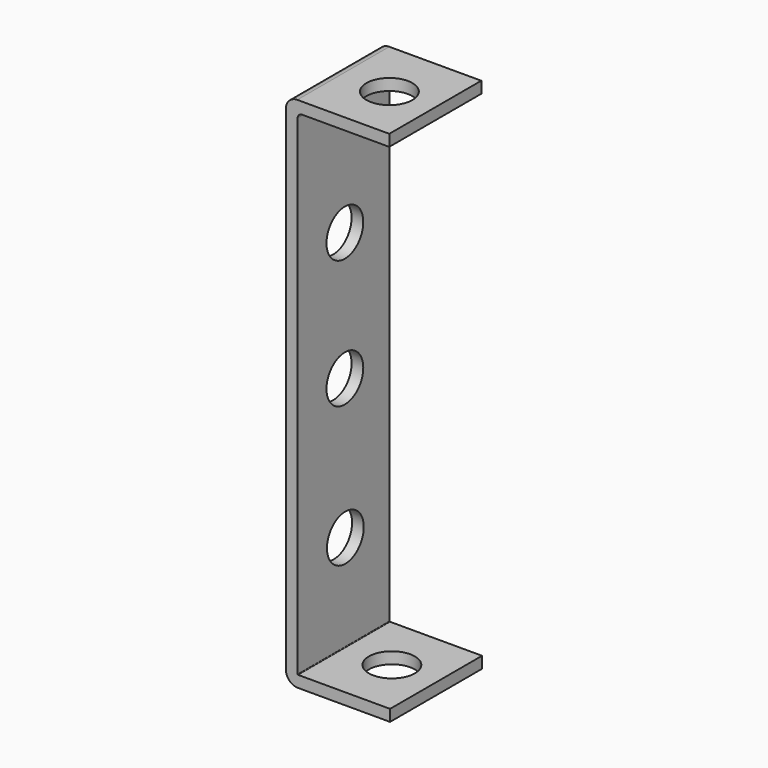
from build123d import *

# Parameters (mm, degrees)
CYLINDER030_R               = 2
CYLINDER030_DEPTH           = 10
CYLINDER030_PITCH_ANGLE     = 90
CYLINDER030_PLACEMENT_ANGLE = 7e-06
CYLINDER031_R               = 2
CYLINDER031_DEPTH           = 10
CYLINDER031_PITCH_ANGLE     = 90
CYLINDER031_PLACEMENT_ANGLE = 7e-06
CYLINDER026_R               = 2
CYLINDER026_DEPTH           = 2
CYLINDER026_ROLL_ANGLE      = -88.507054
CYLINDER026_PITCH_ANGLE     = -87.01751
CYLINDER026_PLACEMENT_ANGLE = -92.244015
CYLINDER028_R               = 2
CYLINDER028_DEPTH           = 2
CYLINDER028_PLACEMENT_ANGLE = 90.00001
CYLINDER029_R               = 2
CYLINDER029_DEPTH           = 2
CYLINDER029_ROLL_ANGLE      = 90
CYLINDER027_R               = 2
CYLINDER027_DEPTH           = 2
CYLINDER027_ROLL_ANGLE      = 90
CYLINDER025_R               = 2
CYLINDER025_DEPTH           = 2
CYLINDER025_ROLL_ANGLE      = -88.507054
CYLINDER025_PITCH_ANGLE     = -87.01751
CYLINDER025_PLACEMENT_ANGLE = -92.244015
PAD006_DEPTH                = 10
CUT034_PITCH_ANGLE          = 90
CUT034_PLACEMENT_ANGLE      = -90


with BuildPart() as cylinder030:
    # Cylinder030 → Cylinder030 (new body)
    with BuildSketch(Plane.XY):
        Circle(CYLINDER030_R)
    extrude(amount=CYLINDER030_DEPTH)


with BuildPart() as cylinder030_1:
    # Cylinder030 pitch: moved
    add(cylinder030.part.rotate(Axis((0, 0, 0), (0, 1, 0)), CYLINDER030_PITCH_ANGLE))


with BuildPart() as cylinder030_2:
    # Cylinder030 placement: moved
    add(cylinder030_1.part.moved(Location((15.49, 3.9, 4.87))).rotate(Axis((15.49, 3.9, 4.87), (0, 0, 1)), CYLINDER030_PLACEMENT_ANGLE))


with BuildPart() as cylinder031:
    # Cylinder031 → Cylinder031 (new body)
    with BuildSketch(Plane.XY):
        Circle(CYLINDER031_R)
    extrude(amount=CYLINDER031_DEPTH)


with BuildPart() as cylinder031_1:
    # Cylinder031 pitch: moved
    add(cylinder031.part.rotate(Axis((0, 0, 0), (0, 1, 0)), CYLINDER031_PITCH_ANGLE))


with BuildPart() as cylinder031_2:
    # Cylinder031 placement: moved
    add(cylinder031_1.part.moved(Location((-28.4147, 3.9, 5.14))).rotate(Axis((-28.4147, 3.9, 5.14), (0, 0, 1)), CYLINDER031_PLACEMENT_ANGLE))


with BuildPart() as cylinder026:
    # Cylinder026 → Cylinder026 (new body)
    with BuildSketch(Plane.XY):
        Circle(CYLINDER026_R)
    extrude(amount=CYLINDER026_DEPTH)


with BuildPart() as cylinder026_1:
    # Cylinder026 roll: moved
    add(cylinder026.part.rotate(Axis((0, 0, 0), (1, 0, 0)), CYLINDER026_ROLL_ANGLE))


with BuildPart() as cylinder026_2:
    # Cylinder026 pitch: moved
    add(cylinder026_1.part.rotate(Axis((0, 0, 0), (0, 1, 0)), CYLINDER026_PITCH_ANGLE))


with BuildPart() as cylinder026_3:
    # Cylinder026 placement: moved
    add(cylinder026_2.part.moved(Location((-26, 5.29, 4.9))).rotate(Axis((-26, 5.29, 4.9), (0, 0, 1)), CYLINDER026_PLACEMENT_ANGLE))


with BuildPart() as cylinder028:
    # Cylinder028 → Cylinder028 (new body)
    with BuildSketch(Plane.XY):
        Circle(CYLINDER028_R)
    extrude(amount=CYLINDER028_DEPTH)


with BuildPart() as cylinder028_1:
    # Cylinder028 placement: moved
    add(cylinder028.part.moved(Location((-11.1555, 0, 4.86401))).rotate(Axis((-11.1555, 0, 4.86401), (1, 0, 0)), CYLINDER028_PLACEMENT_ANGLE))


with BuildPart() as cylinder029:
    # Cylinder029 → Cylinder029 (new body)
    with BuildSketch(Plane.XY):
        Circle(CYLINDER029_R)
    extrude(amount=CYLINDER029_DEPTH)


with BuildPart() as cylinder029_1:
    # Cylinder029 roll: moved
    add(cylinder029.part.rotate(Axis((0, 0, 0), (1, 0, 0)), CYLINDER029_ROLL_ANGLE))


with BuildPart() as cylinder029_2:
    # Cylinder029 placement: moved
    add(cylinder029_1.part.moved(Location((0, 0, 4.86401))))


with BuildPart() as cylinder027:
    # Cylinder027 → Cylinder027 (new body)
    with BuildSketch(Plane.XY):
        Circle(CYLINDER027_R)
    extrude(amount=CYLINDER027_DEPTH)


with BuildPart() as cylinder027_1:
    # Cylinder027 roll: moved
    add(cylinder027.part.rotate(Axis((0, 0, 0), (1, 0, 0)), CYLINDER027_ROLL_ANGLE))


with BuildPart() as cylinder027_2:
    # Cylinder027 placement: moved
    add(cylinder027_1.part.moved(Location((12.2129, 0, 4.81114))))


with BuildPart() as cylinder025:
    # Cylinder025 → Cylinder025 (new body)
    with BuildSketch(Plane.XY):
        Circle(CYLINDER025_R)
    extrude(amount=CYLINDER025_DEPTH)


with BuildPart() as cylinder025_1:
    # Cylinder025 roll: moved
    add(cylinder025.part.rotate(Axis((0, 0, 0), (1, 0, 0)), CYLINDER025_ROLL_ANGLE))


with BuildPart() as cylinder025_2:
    # Cylinder025 pitch: moved
    add(cylinder025_1.part.rotate(Axis((0, 0, 0), (0, 1, 0)), CYLINDER025_PITCH_ANGLE))


with BuildPart() as cylinder025_3:
    # Cylinder025 placement: moved
    add(cylinder025_2.part.moved(Location((25, 5.38, 4.9))).rotate(Axis((25, 5.38, 4.9), (0, 0, 1)), CYLINDER025_PLACEMENT_ANGLE))


with BuildPart() as cut034:
    # Sketch007 → Pad006 (new body)
    with BuildSketch(Plane.XY):
        with BuildLine():
            Line((20.546084, -1.208272), (-22.415471, -1.208272))
            ThreePointArc((-23.400725, -0.223018), (-23.112151, -0.919698), (-22.415471, -1.208272))
            Line((-23.400725, 7.776982), (-23.400725, -0.223018))
            Line((-23.400725, 7.776982), (-22.400725, 7.776982))
            Line((-22.400725, 7.776982), (-22.400725, 0.197829))
            ThreePointArc((-22.400725, 0.197829), (-22.286166, -0.07874), (-22.009596, -0.193299))
            Line((-22.009596, -0.193299), (20.555186, -0.193299))
            ThreePointArc((20.555186, -0.193299), (20.586324, -0.180401), (20.599222, -0.149263))
            Line((20.599222, 7.844865), (20.599222, -0.149263))
            Line((21.599222, 7.844865), (20.599222, 7.844865))
            Line((21.599222, 7.844865), (21.599222, -0.155135))
            ThreePointArc((20.546084, -1.208272), (21.290765, -0.899815), (21.599222, -0.155135))
        make_face()
    extrude(amount=PAD006_DEPTH)

    # Cut005: cut Cylinder025
    add(cylinder025_3.part, mode=Mode.SUBTRACT)

    # Cut006: cut Cylinder027
    add(cylinder027_2.part, mode=Mode.SUBTRACT)

    # Cut007: cut Cylinder029
    add(cylinder029_2.part, mode=Mode.SUBTRACT)

    # Cut008: cut Cylinder028
    add(cylinder028_1.part, mode=Mode.SUBTRACT)

    # Cut009: cut Cylinder026
    add(cylinder026_3.part, mode=Mode.SUBTRACT)

    # Cut018: cut Cylinder031
    add(cylinder031_2.part, mode=Mode.SUBTRACT)

    # Cut034: cut Cylinder030
    add(cylinder030_2.part, mode=Mode.SUBTRACT)


with BuildPart() as cut034_1:
    # Cut034 pitch: moved
    add(cut034.part.rotate(Axis((0, 0, 0), (0, 1, 0)), CUT034_PITCH_ANGLE))


with BuildPart() as cut034_2:
    # Cut034 placement: moved
    add(cut034_1.part.moved(Location((-114.175, -34.5899, 126))).rotate(Axis((-114.175, -34.5899, 126), (0, 0, 1)), CUT034_PLACEMENT_ANGLE))


solid = cut034_2.part
